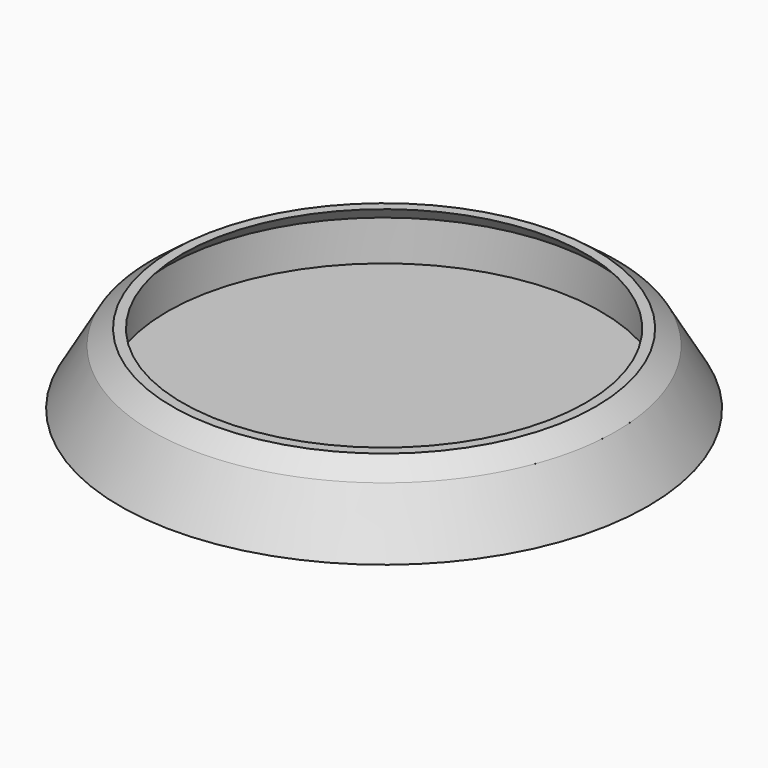
from build123d import *

# Parameters (mm, degrees)
F0_R     = 23
F1_DEPTH = 5.5
F2_T     = -1.5


with BuildPart() as f1:
    # F0 (on Top) → F1 (new body)
    with BuildSketch(Plane.XY):
        Circle(F0_R)
    extrude(amount=F1_DEPTH)

    # F2
    f2_openings = [f1.faces().sort_by_distance(p)[0] for p in [
        (0, 0, 5.5),
    ]]
    offset(amount=F2_T, openings=f2_openings)

    # F3 (on Front) → F4 (revolve)
    with BuildSketch(Plane.XZ):
        Polygon((26.181743, 0), (23, 5.5), (23, 0), align=None)
    revolve(axis=Axis((0, 0, 13.063222), (0, 0, 1)))

    # F5 (on Front) → F6 (revolve)
    with BuildSketch(Plane.XZ):
        Polygon((-21.499641, 5.5), (-20, 7.014853), (-21, 7.014853), (-22.999849, 5.5), align=None)
    revolve(axis=Axis((0, 0, 13.958684), (0, 0, -1)))


solid = f1.part
